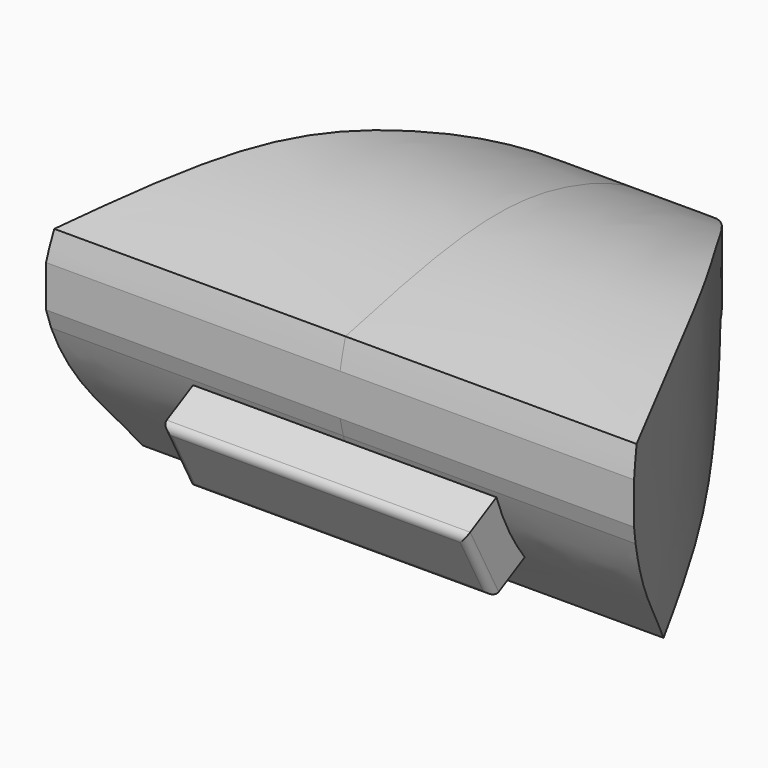
from build123d import *

# Parameters (mm, degrees)
F2_DEPTH = 7.75
F4_DEPTH = 25
F6_DEPTH = 4
F7_R     = 0.2


with BuildPart() as f2:
    # F1 (on Right) → F2 (new body, symmetric)
    with BuildSketch(Plane.YZ):
        with BuildLine():
            add(Edge.make_bspline(
                [(15.9764018067, 20.3420528816), (17.2041890595, 20.6287244677), (19.5850299616, 21.1870373625), (22.6354301881, 21.2058318383), (25.7183894409, 20.0206141081), (26.1510953936, 19.2531516386), (26.2918325878, 18.9858826508)],
                knots=[0, 0, 0, 0, 0.2959604726, 0.569686359, 0.8417277002, 1, 1, 1, 1], degree=3))
            add(Edge.make_bspline(
                [(15.907533388, 18.0637109861), (15.834929305, 18.3091583728), (15.6598763017, 19.138099244), (15.8269500679, 19.8043517568), (15.9764018067, 20.3420528816)],
                knots=[0.583290594, 0.583290594, 0.583290594, 0.583290594, 0.7059883384, 1, 1, 1, 1], degree=3))
            add(Edge.make_bspline(
                [(15.907533388, 18.0637109861), (16.3952708112, 18.2571285426), (17.5152711285, 18.7051624944), (20.8104230334, 19.6077071346), (22.5333760998, 19.128982349), (23.4615845949, 18.8083123925), (23.8998483478, 18.6566487187)],
                knots=[0, 0, 0, 0, 0.2330121711, 0.5559876221, 0.7913389708, 1, 1, 1, 1], degree=3))
            add(Edge.make_bspline(
                [(26.2918325878, 18.9858826508), (26.0522422972, 18.7461785524), (25.2037589138, 18.4974557574), (24.4436755058, 18.5382203481), (23.8998483478, 18.6566487187)],
                knots=[0, 0, 0, 0, 0.4724232135, 1, 1, 1, 1], degree=3))
        make_face()
        with BuildLine():
            add(Edge.make_bspline(
                [(15.907533388, 18.0637109861), (16.3952708112, 18.2571285426), (17.5152711285, 18.7051624944), (20.8104230334, 19.6077071346), (22.5333760998, 19.128982349), (23.4615845949, 18.8083123925), (23.8998483478, 18.6566487187)],
                knots=[0, 0, 0, 0, 0.2330121711, 0.5559876221, 0.7913389708, 1, 1, 1, 1], degree=3))
            add(Edge.make_bspline(
                [(17.872953561, 14.8083452143), (17.2104388475, 15.7501231879), (16.5534544022, 16.4581339927), (16.0339610251, 17.6363061925), (15.907533388, 18.0637109861)],
                knots=[0, 0, 0, 0, 0.3696333829, 0.583290594, 0.583290594, 0.583290594, 0.583290594], degree=3))
            add(Edge.make_bspline(
                [(23.8998483478, 18.6566487187), (23.749402857, 18.1850885688), (23.4105386945, 17.122944171), (21.2445071896, 15.8607875111), (19.0759119851, 15.1838529079), (17.872953561, 14.8083452143)],
                knots=[0, 0, 0, 0, 0.2622875414, 0.5907777464, 1, 1, 1, 1], degree=3))
        make_face()
    extrude(amount=F2_DEPTH, both=True)

    # F3 (on Top) → F4 (intersect)
    with BuildSketch(Plane.XY):
        with BuildLine():
            add(Edge.make_bspline(
                [(-7.75, 15.8), (-7.2858735782, 16.8846031645), (-5.7486243533, 20.6341718163), (-3.9473069374, 23.2912684486), (-2.0830353705, 26.1251607988), (0, 26.3124387711)],
                knots=[0, 0, 0, 0, 0.3533091933, 0.6510969403, 1, 1, 1, 1], degree=3))
            Line((-7.75, 15.8), (7.75, 15.8))
            add(Edge.make_bspline(
                [(7.75, 15.8), (7.2858735782, 16.8846031645), (5.7486243533, 20.6341718163), (3.9473069374, 23.2912684486), (2.0830353705, 26.1251607988), (0, 26.3124387711)],
                knots=[0, 0, 0, 0, 0.3533091933, 0.6510969403, 1, 1, 1, 1], degree=3))
        make_face()
    extrude(amount=F4_DEPTH, mode=Mode.INTERSECT)

    # F5 (on Right) → F6 (join, symmetric)
    with BuildSketch(Plane.YZ):
        Polygon((16.2354782637, 18.0701025299), (14.9110568744, 17.3658951857), (15.85, 15.6), (17.1744213893, 16.3042073442), align=None)
    extrude(amount=F6_DEPTH, both=True)

    # F7
    f7_edges = [f2.edges().sort_by_distance(p)[0] for p in [
        (4, 15.380528, 16.482948),
        (0, 14.911057, 17.365895),
        (-4, 15.380528, 16.482948),
        (0, 15.85, 15.6),
    ]]
    fillet(f7_edges, radius=F7_R)


solid = f2.part
